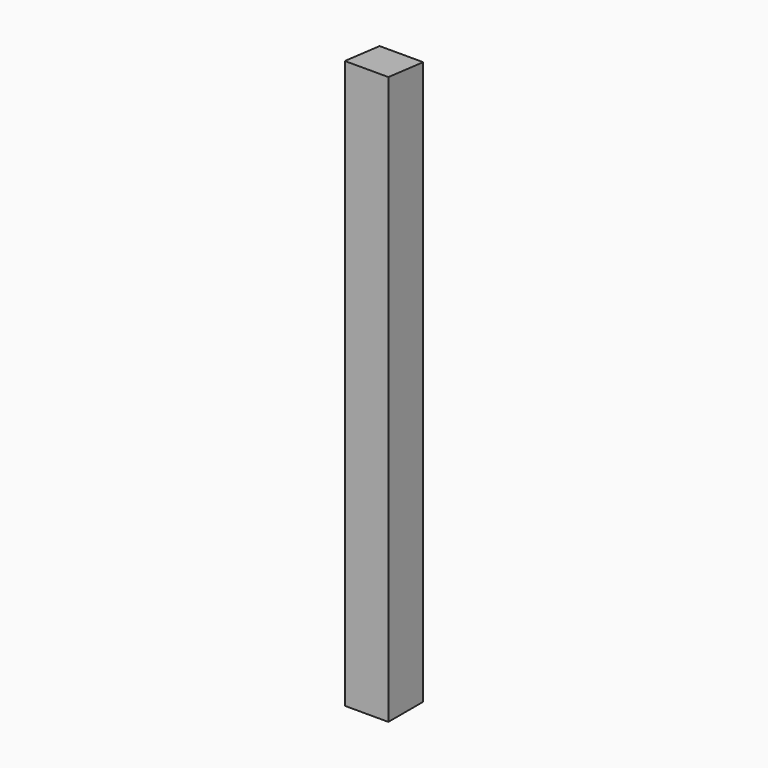
from build123d import *

# Parameters (mm, degrees)
F0_W     = 70
F0_H     = 70
F1_DEPTH = 1000
F3_DEPTH = 70


with BuildPart() as f1:
    # F0 (on Top) → F1 (new body)
    with BuildSketch(Plane.XY):
        Rectangle(F0_W, F0_H)
    extrude(amount=F1_DEPTH)

    # F2 (on face) → F3 (cut, through all)
    with BuildSketch(Plane.YZ.offset(35)):
        Polygon((-35, 1000), (-35, 912.7634847295), (35, 905.4061882609), (35, 1000), align=None)
    extrude(amount=-F3_DEPTH, mode=Mode.SUBTRACT)


solid = f1.part
